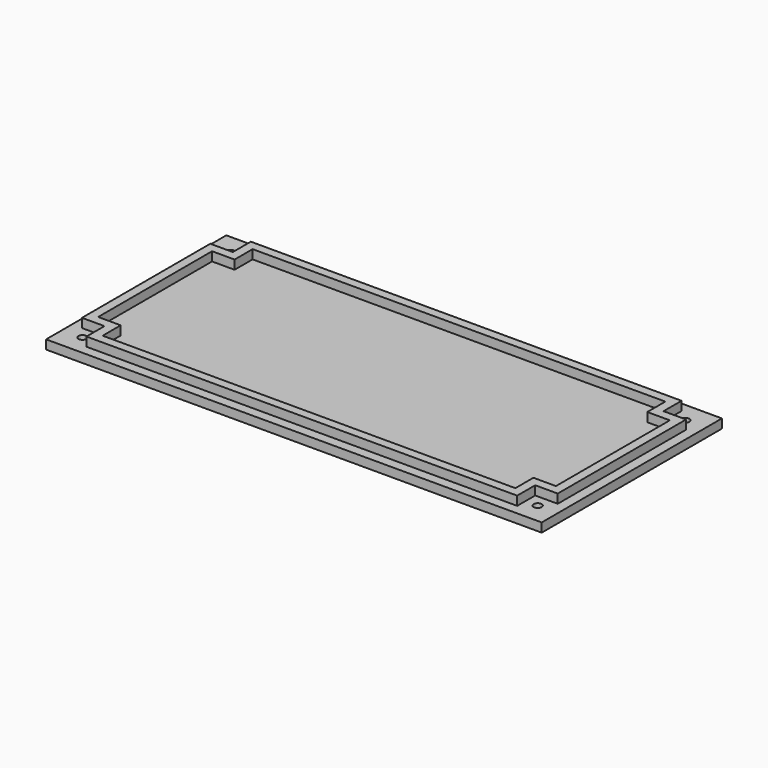
from build123d import *

# Parameters (mm, degrees)
F0_W     = 139.7
F0_H     = 63.5
F1_DEPTH = 2.54
F2_W     = 134.112
F2_H     = 57.912
F3_DEPTH = 2.54
F4_W     = 6.35
F4_H     = 6.35
F5_DEPTH = 2.54
F7_DEPTH = 2.54
F8_R     = 1.143
F9_DEPTH = 2.54


with BuildPart() as f1:
    # F0 (on Top) → F1 (new body)
    with BuildSketch(Plane.XY):
        Rectangle(F0_W, F0_H)
    extrude(amount=F1_DEPTH)

    # F2 (on face) → F3 (join)
    with BuildSketch(Plane.XY.offset(2.54)):
        Rectangle(F2_W, F2_H)
    extrude(amount=F3_DEPTH)

    # F4 (on face) → F5 (cut)
    with BuildSketch(Plane.XY.offset(5.08)):
        with Locations((-63.881, 25.781)):
            Rectangle(F4_W, F4_H)
        with Locations((63.881, 25.781)):
            Rectangle(F4_W, F4_H)
        with Locations((-63.881, -25.781)):
            Rectangle(F4_W, F4_H)
        with Locations((63.881, -25.781)):
            Rectangle(F4_W, F4_H)
    extrude(amount=-F5_DEPTH, mode=Mode.SUBTRACT)

    # F6 (on face) → F7 (cut)
    with BuildSketch(Plane.XY.offset(5.08)):
        Polygon((64.516, 20.066), (58.166, 20.066), (58.166, 26.416), (-58.166, 26.416), (-58.166, 20.066), (-64.516, 20.066), (-64.516, -20.066), (-58.166, -20.066), (-58.166, -26.416), (58.166, -26.416), (58.166, -20.066), (64.516, -20.066), align=None)
    extrude(amount=-F7_DEPTH, mode=Mode.SUBTRACT)

    # F8 (on face) → F9 (cut, through all)
    with BuildSketch(Plane(origin=(0, 0, 0), x_dir=(1, 0, 0), z_dir=(0, 0, -1))):
        with Locations((64.135, 26.035)):
            Circle(F8_R)
        with Locations((-64.135, 26.035)):
            Circle(F8_R)
        with Locations((64.135, -26.035)):
            Circle(F8_R)
        with Locations((-64.135, -26.035)):
            Circle(F8_R)
    extrude(amount=-F9_DEPTH, mode=Mode.SUBTRACT)


solid = f1.part
